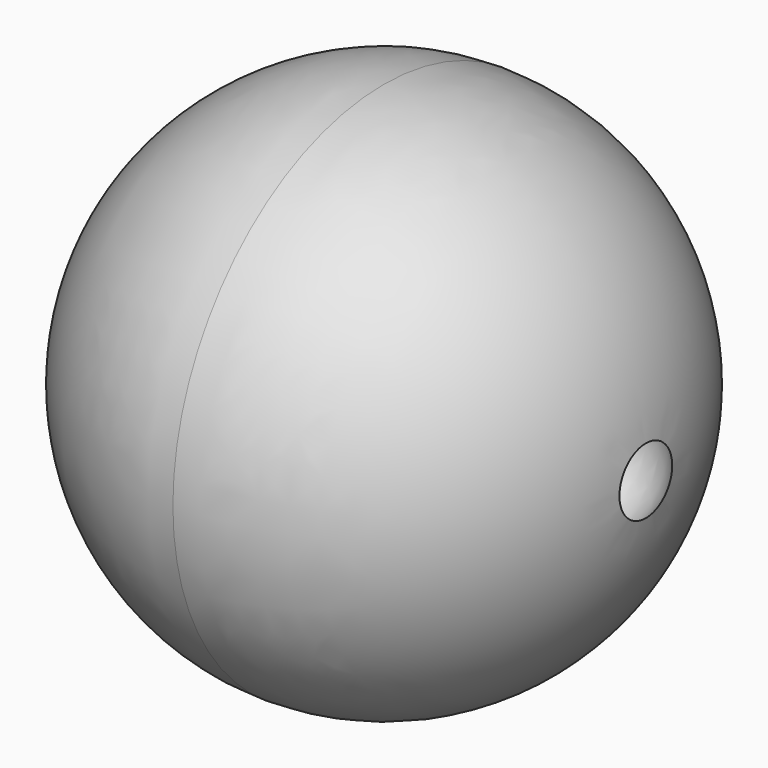
from build123d import *


with BuildPart() as f1:
    # F0 (on Front) → F1 (revolve)
    with BuildSketch(Plane.XZ):
        with BuildLine():
            ThreePointArc((1.984313, 0.25), (1.322876, 1.5), (0, 2))
            Line((0, 2), (0, 0))
            Line((0, 0), (1.051301, 0))
            ThreePointArc((1.051301, 0), (1.421891, 0.482963), (1.984313, 0.25))
        make_face()
    revolve(axis=Axis((0.52565, 0, 0), (1, 0, 0)))

    # F2: F1 across face


with BuildPart() as f1_1:
    add(f1.part)
    add(f1.part.mirror(Plane(origin=(0, 0, 0), x_dir=(0, -1, 0), z_dir=(-1, 0, 0))))


solid = f1_1.part
